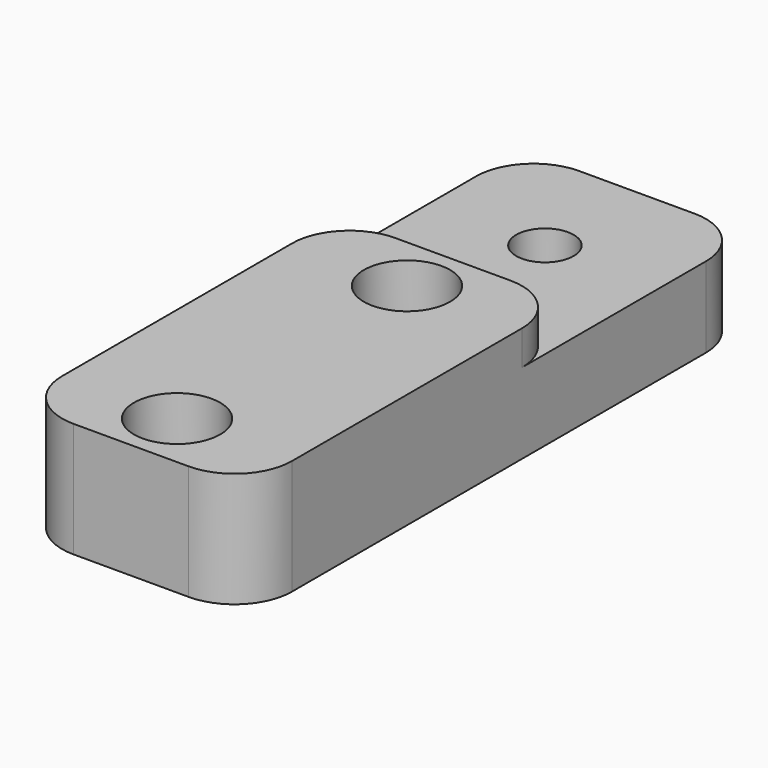
from build123d import *

# Parameters (mm, degrees)
F0_W     = 20
F0_H     = 55
F0_R     = 2
F0_R_2   = 2.5
F1_DEPTH = 10
F2_R     = 3.75
F3_DEPTH = 5
F4_W     = 20
F4_H     = 20
F4_R     = 2.5
F5_DEPTH = 3
F6_R     = 5
F7_R     = 4.75
F7_R_2   = 2.5
F8_DEPTH = 3


with BuildPart() as f1:
    # F0 (on Top) → F1 (new body)
    with BuildSketch(Plane.XY):
        with Locations((10, 27.5)):
            Rectangle(F0_W, F0_H)
        with Locations((10, 5)):
            Circle(F0_R, mode=Mode.SUBTRACT)
        with Locations((10, 30)):
            Circle(F0_R, mode=Mode.SUBTRACT)
        with Locations((10, 45)):
            Circle(F0_R_2, mode=Mode.SUBTRACT)
    extrude(amount=F1_DEPTH)

    # F2 (on face) → F3 (cut)
    with BuildSketch(Plane.XY.offset(10)):
        with Locations((10, 5)):
            Circle(F2_R)
        with Locations((10, 30)):
            Circle(F2_R)
    extrude(amount=-F3_DEPTH, mode=Mode.SUBTRACT)

    # F4 (on face) → F5 (cut)
    with BuildSketch(Plane.XY.offset(10)):
        with Locations((10, 45)):
            Rectangle(F4_W, F4_H)
        with Locations((10, 45)):
            Circle(F4_R, mode=Mode.SUBTRACT)
    extrude(amount=-F5_DEPTH, mode=Mode.SUBTRACT)

    # F6
    f6_edges = [f1.edges().sort_by_distance(p)[0] for p in [
        (20, 0, 5),
        (20, 55, 3.5),
        (0, 55, 3.5),
        (0, 0, 5),
        (20, 35, 8.5),
        (0, 35, 8.5),
    ]]
    fillet(f6_edges, radius=F6_R)

    # F7 (on face) → F8 (cut)
    with BuildSketch(Plane.XY):
        with Locations((10, 45)):
            Circle(F7_R)
        with Locations((10, 45)):
            Circle(F7_R_2, mode=Mode.SUBTRACT)
    extrude(amount=F8_DEPTH, mode=Mode.SUBTRACT)


solid = f1.part
